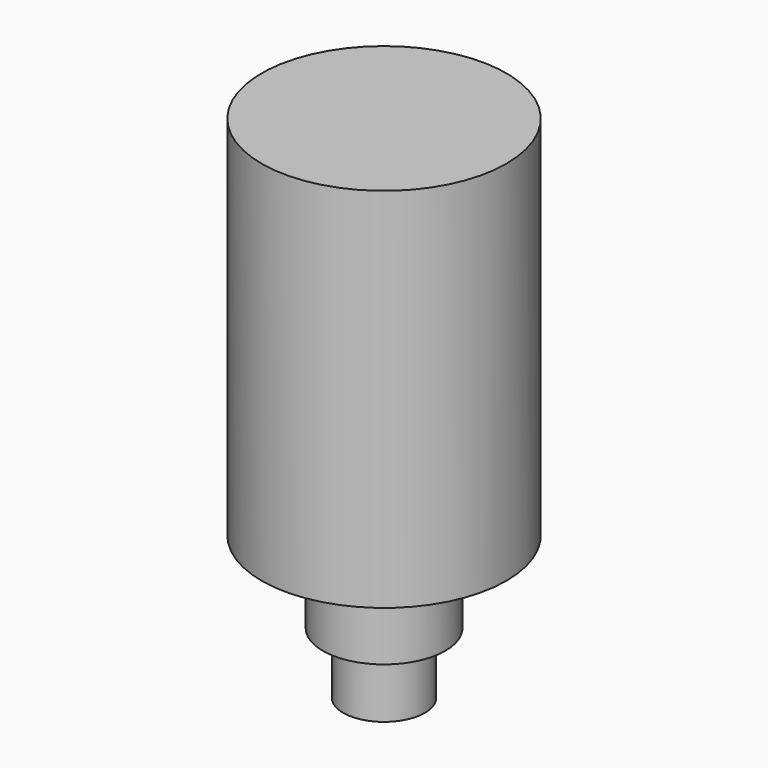
from build123d import *

# Parameters (mm, degrees)
F0_R     = 20
F1_DEPTH = 30
F2_R     = 30
F3_DEPTH = 40
F4_R     = 60
F5_DEPTH = 180


with BuildPart() as f1:
    # F0 (on Top) → F1 (new body)
    with BuildSketch(Plane.XY):
        Circle(F0_R)
    extrude(amount=-F1_DEPTH)

    # F2 (on Top) → F3 (join)
    with BuildSketch(Plane.XY):
        Circle(F2_R)
    extrude(amount=F3_DEPTH)

    # F4 (on face) → F5 (join)
    with BuildSketch(Plane.XY.offset(40)):
        Circle(F4_R)
    extrude(amount=F5_DEPTH)


solid = f1.part
